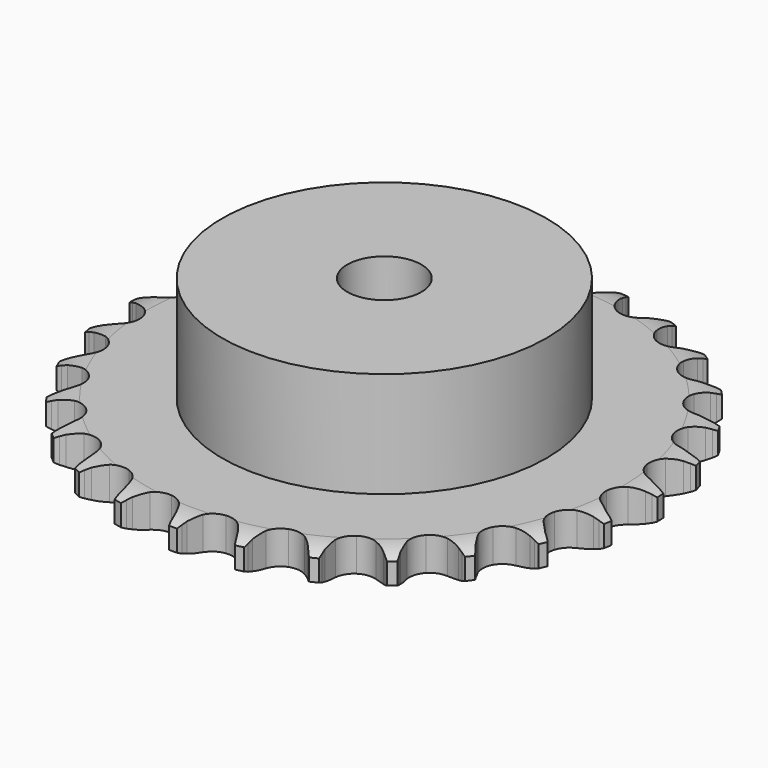
from build123d import *

# Parameters (mm, degrees)
PAD_DEPTH         = 7.2
SKETCH001_R       = 35
PAD001_DEPTH      = 30
SKETCH002_R       = 8
POCKET_DEPTH      = 0.001
POCKET_DEPTH_BACK = 30.001


with BuildPart() as part:
    # Sprocket → Pad (new body)
    with BuildSketch(Plane.XY):
        with BuildLine():
            ThreePointArc((-6.790948, 58.100272), (-5.963647, 57.039551), (-5.356117, 55.839358))
            Line((-5.356117, 55.839358), (-4.941702, 54.776235))
            ThreePointArc((-4.941702, 54.776235), (-4.282171, 53.379584), (-3.435517, 52.087767))
            ThreePointArc((-3.435517, 52.087767), (-1.917573, 50.832759), (0, 50.383192))
            ThreePointArc((0, 50.383192), (1.917573, 50.832759), (3.435517, 52.087767))
            ThreePointArc((3.435517, 52.087767), (4.282171, 53.379584), (4.941702, 54.776235))
            Line((4.941702, 54.776235), (5.356117, 55.839358))
            ThreePointArc((5.356117, 55.839358), (5.963647, 57.039551), (6.790948, 58.100272))
            ThreePointArc((6.790948, 58.100272), (7.35133, 56.877354), (7.6657, 55.569406))
            Line((7.6657, 55.569406), (7.823772, 54.439369))
            ThreePointArc((7.823772, 54.439369), (8.143435, 52.928267), (8.669354, 51.47602))
            ThreePointArc((8.669354, 51.47602), (9.856956, 49.904778), (11.619164, 49.025107))
            ThreePointArc((11.619164, 49.025107), (13.588726, 49.020333), (15.355178, 49.89145))
            Line((15.355178, 49.89145), (17.440766, 52.160099))
            ThreePointArc((17.440766, 52.160099), (17.752927, 52.637868), (18.089184, 53.098995))
            ThreePointArc((18.089184, 53.098995), (18.957122, 54.126731), (20.006742, 54.968071))
            ThreePointArc((20.006742, 54.968071), (20.269994, 53.648884), (20.274257, 52.303693))
            Line((20.274257, 52.303693), (20.167463, 51.167663))
            ThreePointArc((20.167463, 51.167663), (20.130026, 49.623573), (20.306857, 48.089186))
            ThreePointArc((20.306857, 48.089186), (21.100094, 46.286418), (22.611935, 45.024065))
            ThreePointArc((22.611935, 45.024065), (24.527307, 44.565207), (26.447037, 45.005472))
            Line((26.447037, 45.005472), (28.999595, 46.732))
            ThreePointArc((28.999595, 46.732), (29.413522, 47.1249), (29.847059, 47.496052))
            ThreePointArc((29.847059, 47.496052), (30.928613, 48.295924), (32.143967, 48.872528))
            ThreePointArc((32.143967, 48.872528), (32.095898, 47.528189), (31.789824, 46.218275))
            Line((31.789824, 46.218275), (31.423922, 45.137495))
            ThreePointArc((31.423922, 45.137495), (31.031402, 43.64366), (30.849613, 42.109852))
            ThreePointArc((30.849613, 42.109852), (31.205721, 40.172745), (32.385692, 38.595765))
            ThreePointArc((32.385692, 38.595765), (34.143614, 37.70756), (36.11313, 37.693237))
            Line((36.11313, 37.693237), (38.995048, 38.784566))
            ThreePointArc((38.995048, 38.784566), (39.488427, 39.071418), (39.995871, 39.332584))
            ThreePointArc((39.995871, 39.332584), (41.232735, 39.861472), (42.548303, 40.142253))
            ThreePointArc((42.548303, 40.142253), (42.191503, 38.845237), (41.591593, 37.641218))
            Line((41.591593, 37.641218), (40.986309, 36.673953))
            ThreePointArc((40.986309, 36.673953), (40.259868, 35.310906), (39.729258, 33.860366))
            ThreePointArc((39.729258, 33.860366), (39.62904, 31.893349), (40.413527, 30.086756))
            ThreePointArc((40.413527, 30.086756), (41.91923, 28.817089), (43.832355, 28.34895))
            Line((43.832355, 28.34895), (46.888268, 28.746246))
            ThreePointArc((46.888268, 28.746246), (47.4345, 28.911584), (47.988495, 29.048687))
            ThreePointArc((47.988495, 29.048687), (49.31399, 29.278078), (50.658849, 29.2479))
            ThreePointArc((50.658849, 29.2479), (50.012554, 28.068129), (49.151148, 27.034912))
            Line((49.151148, 27.034912), (48.339113, 26.233308))
            ThreePointArc((48.339113, 26.233308), (47.317913, 25.074531), (46.467088, 23.785458))
            ThreePointArc((46.467088, 23.785458), (45.915946, 21.894574), (46.262659, 19.955763))
            ThreePointArc((46.262659, 19.955763), (47.43497, 18.37308), (49.188566, 17.476364))
            Line((49.188566, 17.476364), (52.253729, 17.158208))
            ThreePointArc((52.253729, 17.158208), (52.823367, 17.19312), (53.394047, 17.198767))
            ThreePointArc((53.394047, 17.198767), (54.736714, 17.116295), (56.038363, 16.776784))
            ThreePointArc((56.038363, 16.776784), (55.137415, 15.77786), (54.060952, 14.971148))
            Line((54.060952, 14.971148), (53.085943, 14.378419))
            ThreePointArc((53.085943, 14.378419), (51.825037, 13.486382), (50.699866, 12.428269))
            ThreePointArc((50.699866, 12.428269), (49.727512, 10.715457), (49.617759, 8.74895))
            ThreePointArc((49.617759, 8.74895), (50.393478, 6.938575), (51.893008, 5.661622))
            Line((51.893008, 5.661622), (54.802178, 4.645167))
            ThreePointArc((54.802178, 4.645167), (55.364513, 4.547771), (55.921112, 4.421657))
            ThreePointArc((55.921112, 4.421657), (57.208568, 4.031768), (58.396834, 3.401228))
            ThreePointArc((58.396834, 3.401228), (57.289804, 2.637003), (56.056317, 2.100285))
            Line((56.056317, 2.100285), (54.970896, 1.748386))
            ThreePointArc((54.970896, 1.748386), (53.538261, 1.171179), (52.199401, 0.40107))
            ThreePointArc((52.199401, 0.40107), (50.858255, -1.041333), (50.297952, -2.929522))
            ThreePointArc((50.297952, -2.929522), (50.635261, -4.869991), (51.799886, -6.458339))
            Line((51.799886, -6.458339), (54.396227, -8.118296))
            ThreePointArc((54.396227, -8.118296), (54.920944, -8.34275), (55.433456, -8.593825))
            ThreePointArc((55.433456, -8.593825), (56.596294, -9.270112), (57.607117, -10.157689))
            ThreePointArc((57.607117, -10.157689), (56.353685, -10.646016), (55.029671, -10.883805))
            Line((55.029671, -10.883805), (53.892354, -10.975903))
            ThreePointArc((53.892354, -10.975903), (52.365222, -11.207163), (50.884852, -11.647751))
            ThreePointArc((50.884852, -11.647751), (49.247216, -12.741984), (48.26657, -14.450062))
            ThreePointArc((48.26657, -14.450062), (48.147284, -16.416015), (48.914218, -18.230129))
            Line((48.914218, -18.230129), (51.057762, -20.444099))
            ThreePointArc((51.057762, -20.444099), (51.516572, -20.783512), (51.957367, -21.146012))
            ThreePointArc((51.957367, -21.146012), (52.932898, -22.072239), (53.711785, -23.169003))
            ThreePointArc((53.711785, -23.169003), (52.379523, -23.355106), (51.036361, -23.281146))
            Line((51.036361, -23.281146), (49.908461, -23.108478))
            ThreePointArc((49.908461, -23.108478), (48.369161, -22.981324), (46.827088, -23.068639))
            ThreePointArc((46.827088, -23.068639), (44.981247, -23.755712), (43.633125, -25.191596))
            ThreePointArc((43.633125, -25.191596), (43.063674, -27.077047), (43.391571, -29.019129))
            Line((43.391571, -29.019129), (44.96676, -31.667756))
            ThreePointArc((44.96676, -31.667756), (45.334928, -32.103829), (45.680244, -32.558212))
            ThreePointArc((45.680244, -32.558212), (46.415876, -33.684445), (46.920838, -34.931269))
            ThreePointArc((46.920838, -34.931269), (45.581569, -34.805115), (44.291667, -34.423394))
            Line((44.291667, -34.423394), (43.233991, -33.99527))
            ThreePointArc((43.233991, -33.99527), (41.765506, -33.516555), (40.244864, -33.24589))
            ThreePointArc((40.244864, -33.24589), (38.290328, -33.488763), (36.647406, -34.575045))
            ThreePointArc((36.647406, -34.575045), (35.65849, -36.278348), (35.529674, -38.243699))
            Line((35.529674, -38.243699), (36.451588, -41.184196))
            ThreePointArc((36.451588, -41.184196), (36.709267, -41.69342), (36.940487, -42.21519))
            ThreePointArc((36.940487, -42.21519), (37.396563, -43.480714), (37.600375, -44.810382))
            ThreePointArc((37.600375, -44.810382), (36.3263, -44.378772), (35.159199, -43.709868))
            Line((35.159199, -43.709868), (34.228764, -43.049367))
            ThreePointArc((34.228764, -43.049367), (32.910262, -42.244901), (31.493028, -41.630848))
            ThreePointArc((31.493028, -41.630848), (29.535167, -41.416427), (27.686017, -42.094543))
            ThreePointArc((27.686017, -42.094543), (26.330948, -43.523874), (25.752363, -45.406542))
            Line((25.752363, -45.406542), (25.971301, -48.480386))
            ThreePointArc((25.971301, -48.480386), (26.1046, -49.035308), (26.209258, -49.596337))
            ThreePointArc((26.209258, -49.596337), (26.361191, -50.932927), (26.252867, -52.273756))
            ThreePointArc((26.252867, -52.273756), (25.11267, -51.559957), (24.131288, -50.639933))
            Line((24.131288, -50.639933), (23.378256, -49.782662))
            ThreePointArc((23.378256, -49.782662), (22.280817, -48.695813), (21.043395, -47.771475))
            ThreePointArc((21.043395, -47.771475), (19.187757, -47.11132), (17.232067, -47.344714))
            ThreePointArc((17.232067, -47.344714), (15.583898, -48.423017), (14.586736, -50.121507))
            Line((14.586736, -50.121507), (14.090895, -53.162985))
            ThreePointArc((14.090895, -53.162985), (14.092627, -53.73369), (14.065082, -54.303732))
            ThreePointArc((14.065082, -54.303732), (13.90468, -55.639332), (13.49006, -56.919038))
            ThreePointArc((13.49006, -56.919038), (12.545211, -55.961533), (11.802454, -54.839985))
            Line((11.802454, -54.839985), (11.26742, -53.832161))
            ThreePointArc((11.26742, -53.832161), (10.450208, -52.521521), (9.459308, -51.336729))
            ThreePointArc((9.459308, -51.336729), (7.805931, -50.266429), (5.849132, -50.042519))
            ThreePointArc((5.849132, -50.042519), (3.996716, -50.711663), (2.634734, -52.134408))
            Line((2.634734, -52.134408), (1.450845, -54.979554))
            ThreePointArc((1.450845, -54.979554), (1.320916, -55.535275), (1.162653, -56.083599))
            ThreePointArc((1.162653, -56.083599), (0.698565, -57.346207), (0, -58.4958))
            ThreePointArc((0, -58.4958), (-0.698565, -57.346207), (-1.162653, -56.083599))
            Line((-1.162653, -56.083599), (-1.450845, -54.979554))
            ThreePointArc((-1.450845, -54.979554), (-1.943775, -53.51578), (-2.634734, -52.134408))
            ThreePointArc((-2.634734, -52.134408), (-3.996716, -50.711663), (-5.849132, -50.042519))
            ThreePointArc((-5.849132, -50.042519), (-7.805931, -50.266429), (-9.459308, -51.336729))
            Line((-9.459308, -51.336729), (-11.26742, -53.832161))
            ThreePointArc((-11.26742, -53.832161), (-11.522005, -54.342938), (-11.802454, -54.839985))
            ThreePointArc((-11.802454, -54.839985), (-12.545211, -55.961533), (-13.49006, -56.919038))
            ThreePointArc((-13.49006, -56.919038), (-13.90468, -55.639332), (-14.065082, -54.303732))
            Line((-14.065082, -54.303732), (-14.090895, -53.162985))
            ThreePointArc((-14.090895, -53.162985), (-14.232969, -51.62499), (-14.586736, -50.121507))
            ThreePointArc((-14.586736, -50.121507), (-15.583898, -48.423017), (-17.232067, -47.344714))
            ThreePointArc((-17.232067, -47.344714), (-19.187757, -47.11132), (-21.043395, -47.771475))
            Line((-21.043395, -47.771475), (-23.378256, -49.782662))
            ThreePointArc((-23.378256, -49.782662), (-23.743772, -50.22096), (-24.131288, -50.639933))
            ThreePointArc((-24.131288, -50.639933), (-25.11267, -51.559957), (-26.252867, -52.273756))
            ThreePointArc((-26.252867, -52.273756), (-26.361191, -50.932927), (-26.209258, -49.596337))
            Line((-26.209258, -49.596337), (-25.971301, -48.480386))
            ThreePointArc((-25.971301, -48.480386), (-25.75486, -46.951083), (-25.752363, -45.406542))
            ThreePointArc((-25.752363, -45.406542), (-26.330948, -43.523874), (-27.686017, -42.094543))
            ThreePointArc((-27.686017, -42.094543), (-29.535167, -41.416427), (-31.493028, -41.630848))
            Line((-31.493028, -41.630848), (-34.228764, -43.049367))
            ThreePointArc((-34.228764, -43.049367), (-34.685506, -43.391557), (-35.159199, -43.709868))
            ThreePointArc((-35.159199, -43.709868), (-36.3263, -44.378772), (-37.600375, -44.810382))
            ThreePointArc((-37.600375, -44.810382), (-37.396563, -43.480714), (-36.940487, -42.21519))
            Line((-36.940487, -42.21519), (-36.451588, -41.184196))
            ThreePointArc((-36.451588, -41.184196), (-35.888299, -39.746031), (-35.529674, -38.243699))
            ThreePointArc((-35.529674, -38.243699), (-35.65849, -36.278348), (-36.647406, -34.575045))
            ThreePointArc((-36.647406, -34.575045), (-38.290328, -33.488763), (-40.244864, -33.24589))
            Line((-40.244864, -33.24589), (-43.233991, -33.99527))
            ThreePointArc((-43.233991, -33.99527), (-43.757335, -34.222904), (-44.291667, -34.423394))
            ThreePointArc((-44.291667, -34.423394), (-45.581569, -34.805115), (-46.920838, -34.931269))
            ThreePointArc((-46.920838, -34.931269), (-46.415876, -33.684445), (-45.680244, -32.558212))
            Line((-45.680244, -32.558212), (-44.96676, -31.667756))
            ThreePointArc((-44.96676, -31.667756), (-44.086991, -30.398261), (-43.391571, -29.019129))
            ThreePointArc((-43.391571, -29.019129), (-43.063674, -27.077047), (-43.633125, -25.191596))
            ThreePointArc((-43.633125, -25.191596), (-44.981247, -23.755712), (-46.827088, -23.068639))
            Line((-46.827088, -23.068639), (-49.908461, -23.108478))
            ThreePointArc((-49.908461, -23.108478), (-50.470195, -23.209285), (-51.036361, -23.281146))
            ThreePointArc((-51.036361, -23.281146), (-52.379523, -23.355106), (-53.711785, -23.169003))
            ThreePointArc((-53.711785, -23.169003), (-52.932898, -22.072239), (-51.957367, -21.146012))
            Line((-51.957367, -21.146012), (-51.057762, -20.444099))
            ThreePointArc((-51.057762, -20.444099), (-49.908942, -19.411712), (-48.914218, -18.230129))
            ThreePointArc((-48.914218, -18.230129), (-48.147284, -16.416015), (-48.26657, -14.450062))
            ThreePointArc((-48.26657, -14.450062), (-49.247216, -12.741984), (-50.884852, -11.647751))
            Line((-50.884852, -11.647751), (-53.892354, -10.975903))
            ThreePointArc((-53.892354, -10.975903), (-54.462194, -10.944448), (-55.029671, -10.883805))
            ThreePointArc((-55.029671, -10.883805), (-56.353685, -10.646016), (-57.607117, -10.157689))
            ThreePointArc((-57.607117, -10.157689), (-56.596294, -9.270112), (-55.433456, -8.593825))
            Line((-55.433456, -8.593825), (-54.396227, -8.118296))
            ThreePointArc((-54.396227, -8.118296), (-53.040288, -7.378673), (-51.799886, -6.458339))
            ThreePointArc((-51.799886, -6.458339), (-50.635261, -4.869991), (-50.297952, -2.929522))
            ThreePointArc((-50.297952, -2.929522), (-50.858255, -1.041333), (-52.199401, 0.40107))
            Line((-52.199401, 0.40107), (-54.970896, 1.748386))
            ThreePointArc((-54.970896, 1.748386), (-55.518122, 1.910407), (-56.056317, 2.100285))
            ThreePointArc((-56.056317, 2.100285), (-57.289804, 2.637003), (-58.396834, 3.401228))
            ThreePointArc((-58.396834, 3.401228), (-57.208568, 4.031768), (-55.921112, 4.421657))
            Line((-55.921112, 4.421657), (-54.802178, 4.645167))
            ThreePointArc((-54.802178, 4.645167), (-53.31222, 5.052153), (-51.893008, 5.661622))
            ThreePointArc((-51.893008, 5.661622), (-50.393478, 6.938575), (-49.617759, 8.74895))
            ThreePointArc((-49.617759, 8.74895), (-49.727512, 10.715457), (-50.699866, 12.428269))
            Line((-50.699866, 12.428269), (-53.085943, 14.378419))
            ThreePointArc((-53.085943, 14.378419), (-53.581054, 14.662272), (-54.060952, 14.971148))
            ThreePointArc((-54.060952, 14.971148), (-55.137415, 15.77786), (-56.038363, 16.776784))
            ThreePointArc((-56.038363, 16.776784), (-54.736714, 17.116295), (-53.394047, 17.198767))
            Line((-53.394047, 17.198767), (-52.253729, 17.158208))
            ThreePointArc((-52.253729, 17.158208), (-50.710075, 17.210615), (-49.188566, 17.476364))
            ThreePointArc((-49.188566, 17.476364), (-47.43497, 18.37308), (-46.262659, 19.955763))
            ThreePointArc((-46.262659, 19.955763), (-45.915946, 21.894574), (-46.467088, 23.785458))
            Line((-46.467088, 23.785458), (-48.339113, 26.233308))
            ThreePointArc((-48.339113, 26.233308), (-48.755417, 26.62369), (-49.151148, 27.034912))
            ThreePointArc((-49.151148, 27.034912), (-50.012554, 28.068129), (-50.658849, 29.2479))
            ThreePointArc((-50.658849, 29.2479), (-49.31399, 29.278078), (-47.988495, 29.048687))
            Line((-47.988495, 29.048687), (-46.888268, 28.746246))
            ThreePointArc((-46.888268, 28.746246), (-45.374138, 28.441249), (-43.832355, 28.34895))
            ThreePointArc((-43.832355, 28.34895), (-41.91923, 28.817089), (-40.413527, 30.086756))
            ThreePointArc((-40.413527, 30.086756), (-39.62904, 31.893349), (-39.729258, 33.860366))
            Line((-39.729258, 33.860366), (-40.986309, 36.673953))
            ThreePointArc((-40.986309, 36.673953), (-41.301363, 37.149818), (-41.591593, 37.641218))
            ThreePointArc((-41.591593, 37.641218), (-42.191503, 38.845237), (-42.548303, 40.142253))
            ThreePointArc((-42.548303, 40.142253), (-41.232735, 39.861472), (-39.995871, 39.332584))
            Line((-39.995871, 39.332584), (-38.995048, 38.784566))
            ThreePointArc((-38.995048, 38.784566), (-37.592068, 38.138608), (-36.11313, 37.693237))
            ThreePointArc((-36.11313, 37.693237), (-34.143614, 37.70756), (-32.385692, 38.595765))
            ThreePointArc((-32.385692, 38.595765), (-31.205721, 40.172745), (-30.849613, 42.109852))
            Line((-30.849613, 42.109852), (-31.423922, 45.137495))
            ThreePointArc((-31.423922, 45.137495), (-31.620742, 45.67319), (-31.789824, 46.218275))
            ThreePointArc((-31.789824, 46.218275), (-32.095898, 47.528189), (-32.143967, 48.872528))
            ThreePointArc((-32.143967, 48.872528), (-30.928613, 48.295924), (-29.847059, 47.496052))
            Line((-29.847059, 47.496052), (-28.999595, 46.732))
            ThreePointArc((-28.999595, 46.732), (-27.783401, 45.779904), (-26.447037, 45.005472))
            ThreePointArc((-26.447037, 45.005472), (-24.527307, 44.565207), (-22.611935, 45.024065))
            ThreePointArc((-22.611935, 45.024065), (-21.100094, 46.286418), (-20.306857, 48.089186))
            Line((-20.306857, 48.089186), (-20.167463, 51.167663))
            ThreePointArc((-20.167463, 51.167663), (-20.235438, 51.734308), (-20.274257, 52.303693))
            ThreePointArc((-20.274257, 52.303693), (-20.269994, 53.648884), (-20.006742, 54.968071))
            ThreePointArc((-20.006742, 54.968071), (-18.957122, 54.126731), (-18.089184, 53.098995))
            Line((-18.089184, 53.098995), (-17.440766, 52.160099))
            ThreePointArc((-17.440766, 52.160099), (-16.476923, 50.953194), (-15.355178, 49.89145))
            ThreePointArc((-15.355178, 49.89145), (-13.588726, 49.020333), (-11.619164, 49.025107))
            ThreePointArc((-11.619164, 49.025107), (-9.856956, 49.904778), (-8.669354, 51.47602))
            Line((-8.669354, 51.47602), (-7.823772, 54.439369))
            ThreePointArc((-7.823772, 54.439369), (-7.759237, 55.006416), (-7.6657, 55.569406))
            ThreePointArc((-7.6657, 55.569406), (-7.35133, 56.877354), (-6.790948, 58.100272))
        make_face()
    extrude(amount=PAD_DEPTH)

    # Sketch → Groove (revolve, cut)
    with BuildSketch(Plane.XZ):
        with BuildLine():
            Line((51.333431, 0), (57, 0))
            Line((62.666569, 0), (57, 0))
            Line((62.666569, 7.2), (62.666569, 0))
            Line((57, 7.2), (62.666569, 7.2))
            Line((51.333431, 7.2), (57, 7.2))
            ThreePointArc((57, 5.9), (54.24032, 6.870833), (51.333431, 7.2))
            Line((57, 1.3), (57, 5.9))
            ThreePointArc((51.333431, 0), (54.24032, 0.329167), (57, 1.3))
        make_face()
    revolve(axis=Axis((0, 0, 0), (0, 0, 1)), mode=Mode.SUBTRACT)

    # Sketch001 → Pad001 (join)
    with BuildSketch(Plane.XY):
        Circle(SKETCH001_R)
    extrude(amount=PAD001_DEPTH)

    # Sketch002 → Pocket (cut, two sides)
    with BuildSketch(Plane.XY) as pocket_sk:
        Circle(SKETCH002_R)
    extrude(amount=-POCKET_DEPTH, mode=Mode.SUBTRACT)
    extrude(pocket_sk.sketch, amount=POCKET_DEPTH_BACK, mode=Mode.SUBTRACT)


solid = part.part
